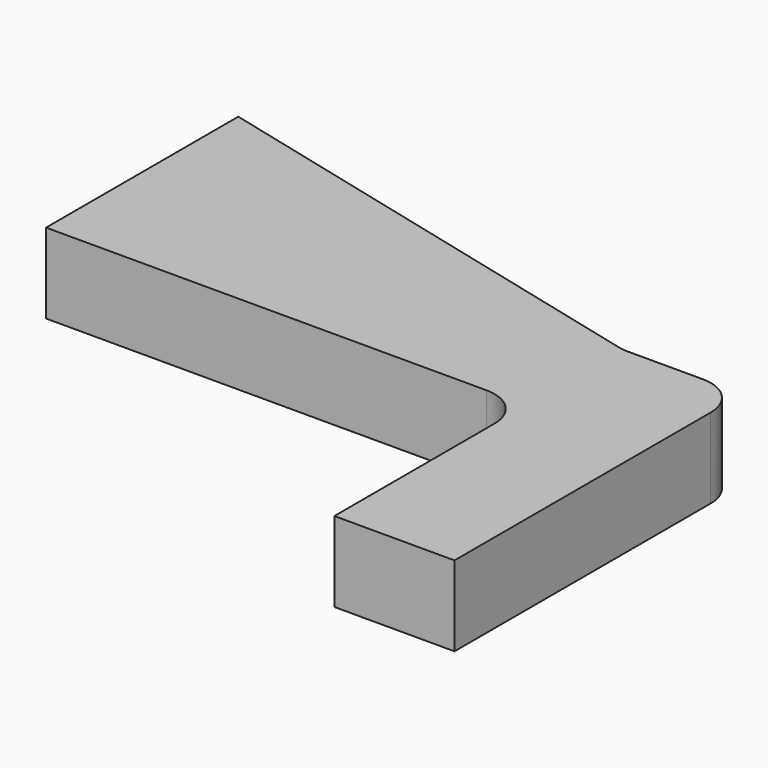
from build123d import *

# Parameters (mm, degrees)
F1_DEPTH = 2
F3_DEPTH = 2
F4_R     = 1


with BuildPart() as f1:
    # F0 (on Top) → F1 (new body)
    with BuildSketch(Plane.XY):
        Polygon((0, 3), (0, 0), (12, 0), (12, 3), (0, 6), align=None)
    extrude(amount=F1_DEPTH)

    # F2 (on face) → F3 (join, through all)
    with BuildSketch(Plane.XY.offset(2)):
        Polygon((15, 3), (12, 3), (12, 0), (12, -6), (15, -6), align=None)
    extrude(amount=-F3_DEPTH)

    # F4
    f4_edges = [f1.edges().sort_by_distance(p)[0] for p in [
        (12, 0, 1),
        (12, 3, 1),
        (15, 3, 1),
    ]]
    fillet(f4_edges, radius=F4_R)


solid = f1.part
